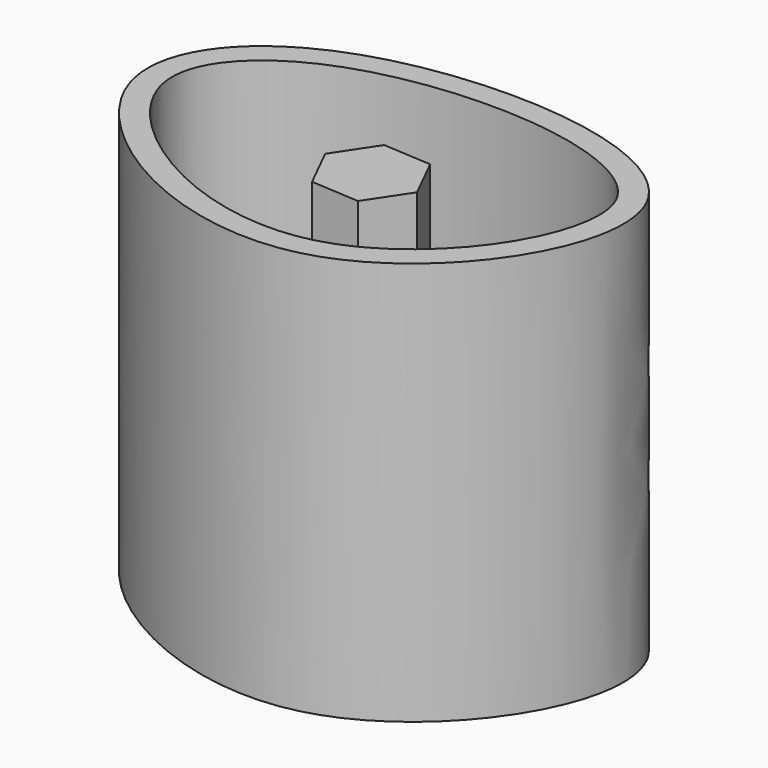
from build123d import *

# Parameters (mm, degrees)
F1_DEPTH = 50
F2_T     = -3


with BuildPart() as f1:
    # F0 (on Top) → F1 (new body)
    with BuildSketch(Plane.XY):
        with BuildLine():
            add(Edge.make_bspline(
                [(-30, 0), (-32.5971991388, 7.7292013489), (-19.2138163917, 24.7989387517), (40.5627114399, 20.273769736), (7.5069679532, -31.262714807), (-26.6082129772, -10.0938755293), (-30, 0)],
                knots=[0, 0, 0, 0, 0.2045265756, 0.4804373057, 0.7329005024, 1, 1, 1, 1], degree=3))
        make_face()
    extrude(amount=F1_DEPTH)

    # F2
    f2_openings = [f1.faces().sort_by_distance(p)[0] for p in [
        (-1.997425, 2.542932, 50),
    ]]
    offset(amount=F2_T, openings=f2_openings)


with BuildPart() as f5:
    # F5: sweep along a path in F4
    with BuildLine(Plane.XZ) as f5_path:
        Line((0, 50), (0, 3))
    # F3 (on face) → F5 (sweep)
    with BuildSketch(Plane.XY.offset(50)):
        Polygon((2.6718146237, -5.3722813233), (5.9884394141, -0.3722813233), (3.3166247904, 5), (-2.6718146237, 5.3722813233), (-5.9884394141, 0.3722813233), (-3.3166247904, -5), align=None)
    sweep(path=f5_path.line)


solid = Compound([f1.part, f5.part])
